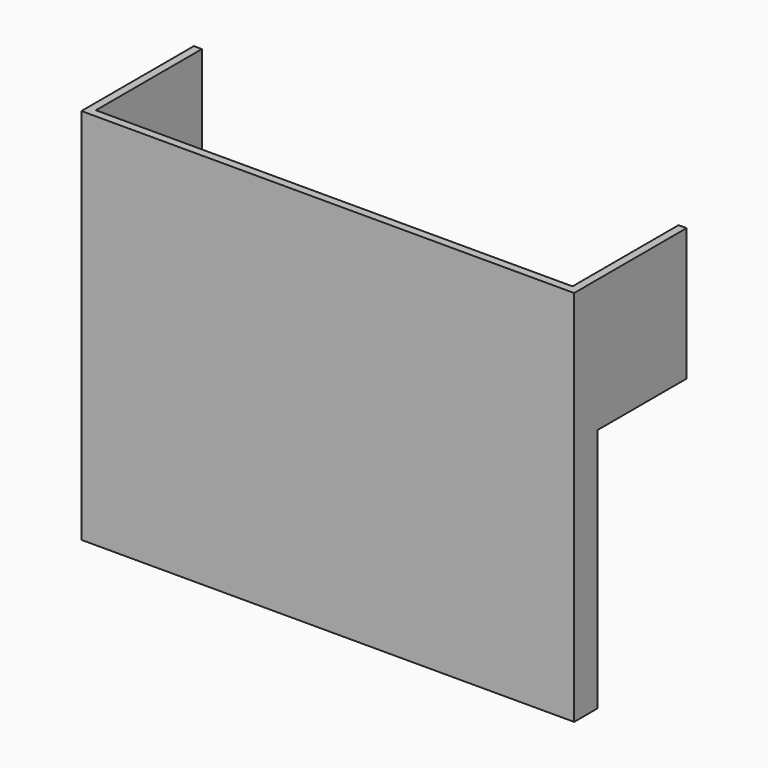
from build123d import *

# Parameters (mm, degrees)
F0_W     = 1168.4
F0_H     = 742.95
F1_DEPTH = 19.05
F2_W     = 19.05
F2_H     = 742.95
F3_DEPTH = 50.8
F4_W     = 19.05
F4_H     = 314.325
F5_DEPTH = 263.525
F6_W     = 19.05
F6_H     = 314.325
F7_DEPTH = 263.525
F8_DEPTH = 152.4


with BuildPart() as f1:
    # F0 (on Front) → F1 (new body)
    with BuildSketch(Plane.XZ):
        Rectangle(F0_W, F0_H)
    extrude(amount=F1_DEPTH)

    # F2 (on face) → F3 (join)
    with BuildSketch(Plane(origin=(0, 0, 0), x_dir=(-1, 0, 0), z_dir=(0, 1, 0))):
        with Locations((-574.675, 0)):
            Rectangle(F2_W, F2_H)
        with Locations((574.675, 0)):
            Rectangle(F2_W, F2_H)
    extrude(amount=F3_DEPTH)

    # F4 (on face) → F5 (join)
    with BuildSketch(Plane(origin=(0, 50.8, 0), x_dir=(-1, 0, 0), z_dir=(0, 1, 0))):
        with Locations((-574.675, 214.3125)):
            Rectangle(F4_W, F4_H)
    extrude(amount=F5_DEPTH)

    # F6 (on face) → F7 (join)
    with BuildSketch(Plane(origin=(0, 50.8, 0), x_dir=(-1, 0, 0), z_dir=(0, 1, 0))):
        with Locations((574.675, 214.3125)):
            Rectangle(F6_W, F6_H)
    extrude(amount=F7_DEPTH)

    # F8 (add): a face of the model
    f8_faces = [f1.faces().sort_by_distance(p)[0] for p in [
        (0, -6.731, -371.475),
    ]]
    extrude(f8_faces, amount=F8_DEPTH)


solid = f1.part
